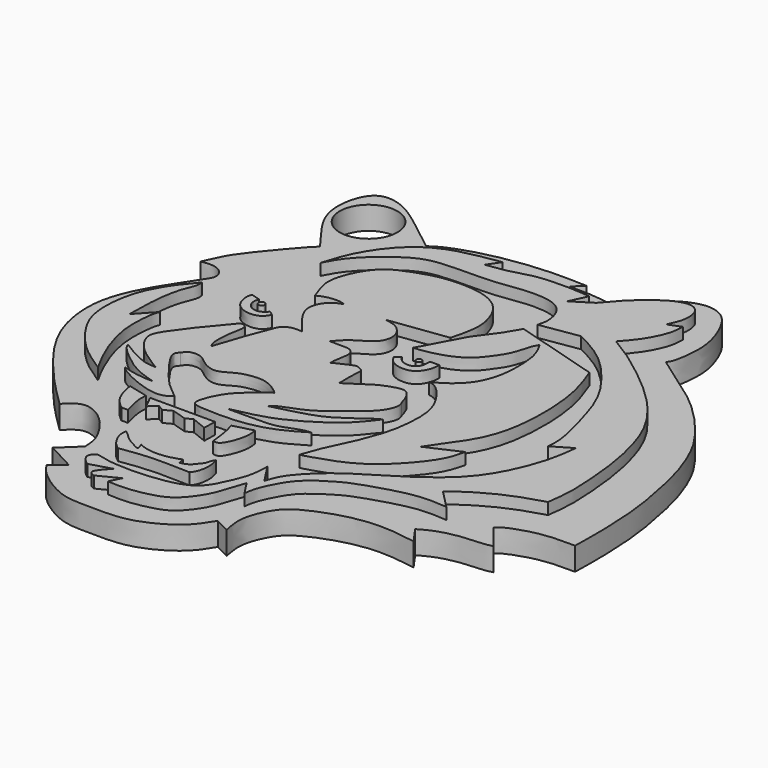
from build123d import *

# Parameters (mm, degrees)
F1_DEPTH  = 2
F3_DEPTH  = 1
F4_R      = 2.5
F5_DEPTH  = 9.3
F7_DEPTH  = 3
F9_DEPTH  = 3
F10_R     = 0.2742298285
F10_R_2   = 0.2370681614
F11_DEPTH = 3
F13_DEPTH = 3


with BuildPart() as f1:
    # F0 (on Top) → F1 (new body)
    with BuildSketch(Plane.XY):
        with BuildLine():
            add(Edge.make_bspline(
                [(7.8128222376, 40.7208278775), (7.4888809791, 41.1582398951), (6.7340914086, 42.1774185894), (4.8048164857, 44.76045053), (5.1272491722, 47.9099401738), (6.342461444, 49.3956865251), (8.5180403892, 48.9808106526), (10.6791015522, 47.3925119791), (12.4370783235, 46.0030828327), (13.3714471012, 45.2645979822)],
                knots=[0, 0, 0, 0, 0.1212494713, 0.282513678, 0.4399678404, 0.5555005722, 0.6809237941, 0.8304102481, 1, 1, 1, 1], degree=3))
            add(Edge.make_bspline(
                [(2.8614688199, 33.9627116919), (3.1325613305, 34.581983074), (3.7017104634, 35.8821214265), (5.1084507277, 37.682438645), (7.2129568597, 40.1776768533), (7.665627715, 40.5875498811), (7.8128222376, 40.7208278775)],
                knots=[0, 0, 0, 0, 0.2519451782, 0.528949986, 0.8468291451, 1, 1, 1, 1], degree=3))
            add(Edge.make_bspline(
                [(4.7813877463, 32.2806574404), (4.8981817207, 32.4556159939), (5.1458855567, 32.8266788426), (4.8577699148, 33.6692000249), (3.9437972172, 34.1229488794), (3.2308045774, 34.0173913281), (2.8614688199, 33.9627116919)],
                knots=[0, 0, 0, 0, 0.2133392813, 0.452463054, 0.7163715844, 1, 1, 1, 1], degree=3))
            add(Edge.make_bspline(
                [(8.4513220936, 11.6882547736), (7.7359390909, 12.3887624226), (6.2209799468, 13.8722201849), (3.6732547473, 16.7994963364), (1.3966217276, 20.3191178632), (0.7104780829, 24.9961292179), (2.3860268783, 28.6311389199), (3.7246985443, 30.6190247851), (4.4420639138, 31.7470742831), (4.7813877463, 32.2806574404)],
                knots=[0, 0, 0, 0, 0.1372009115, 0.2905489432, 0.4504477231, 0.6173454128, 0.771379127, 0.8918591361, 1, 1, 1, 1], degree=3))
            add(Edge.make_bspline(
                [(13.7013653293, 7.8823976219), (13.6861949358, 8.3103999825), (13.6509369982, 9.3051322866), (12.3272663992, 11.3872165897), (10.9660220402, 12.450828794), (9.5808293972, 12.7961423306), (8.8403320719, 12.0698187646), (8.4513220936, 11.6882547736)],
                knots=[0, 0, 0, 0, 0.1838495081, 0.427289804, 0.6349773624, 0.8082404304, 1, 1, 1, 1], degree=3))
            Line((13.7013653293, 7.8823976219), (12.1042644605, 6.3702492043))
            Line((12.1042644605, 6.3702492043), (14.5678780973, 5.0619859248))
            Line((14.5678780973, 5.0619859248), (13.3785475045, 4.1105216369))
            add(Edge.make_bspline(
                [(27.5346711278, 4.9826903269), (27.1717765069, 4.3789677451), (26.3343505311, 2.9858002992), (22.8253917018, 1.0305624187), (19.4376442236, 1.2150873661), (16.9024818761, 1.1170558096), (14.1517826392, 2.9595352246), (13.5977513642, 3.7842293453), (13.3785475045, 4.1105216369)],
                knots=[0, 0, 0, 0, 0.1528175636, 0.3526461677, 0.5392707049, 0.7018636945, 0.882041625, 1, 1, 1, 1], degree=3))
            Line((27.5346711278, 4.9826903269), (28.8312267512, 4.3257684447))
            add(Edge.make_bspline(
                [(39.7741645575, 10.9122758731), (39.2261198973, 11.0088183738), (37.9338955137, 11.2364541534), (34.7123098553, 11.3338309332), (30.7239898157, 9.8418058379), (29.4368849975, 8.6229039504), (28.4225722572, 6.3074598149), (28.698641631, 4.9687144846), (28.8312267512, 4.3257684447)],
                knots=[0, 0, 0, 0, 0.141177074, 0.3328788158, 0.548586155, 0.6889492726, 0.8506147294, 1, 1, 1, 1], degree=3))
            Line((39.7741645575, 10.9122758731), (38.7369170785, 12.3817063868))
            add(Edge.make_bspline(
                [(44.4417670369, 13.7474127114), (44.2597196637, 13.6951105701), (43.7612618328, 13.5519038245), (41.7794703649, 13.5457722099), (39.8163687133, 13.0133921079), (39.0624713637, 12.5722179269), (38.7369170785, 12.3817063868)],
                knots=[0, 0, 0, 0, 0.1700117463, 0.4655034829, 0.769189225, 1, 1, 1, 1], degree=3))
            Line((44.4417670369, 13.7474127114), (42.7303127944, 15.9083399922))
            add(Edge.make_bspline(
                [(48.7117618322, 17.2567591071), (48.3009326046, 17.2626648785), (47.3854783703, 17.2758247588), (45.5452369903, 17.1558723469), (43.3154313834, 16.4184171776), (42.8845833582, 16.0428253708), (42.7303127944, 15.9083399922)],
                knots=[0, 0, 0, 0, 0.2313357209, 0.5154873387, 0.8265141371, 1, 1, 1, 1], degree=3))
            add(Edge.make_bspline(
                [(36.6815663874, 42.1349518001), (37.3935645406, 41.6221010319), (38.9201763798, 40.5224857436), (41.8248474297, 38.5821148022), (44.7495226743, 35.4196020514), (46.3449960446, 32.8575866483), (47.4914293428, 29.7019950112), (48.026085025, 27.0456673704), (48.5407918485, 24.3870960996), (48.780420889, 20.5668171042), (48.7341344313, 18.3353436968), (48.7117618322, 17.2567591071)],
                knots=[0, 0, 0, 0, 0.1013746029, 0.2173596495, 0.3447998103, 0.4527321308, 0.5644931591, 0.6655975591, 0.7669349915, 0.8873478278, 1, 1, 1, 1], degree=3))
            add(Edge.make_bspline(
                [(28.405720368, 46.4419536293), (28.6728324813, 46.7700813411), (29.2564027469, 47.4869547676), (30.6555749778, 48.774588091), (31.9074529305, 49.7919809135), (33.7891417331, 50.4906476868), (35.4285538706, 49.9246980746), (36.4335938138, 48.477117023), (37.2524899196, 46.2668994249), (37.2992944556, 44.4509684635), (37.0392352827, 42.5913425067), (36.7744999633, 42.2535363931), (36.6815663874, 42.1349518001)],
                knots=[0, 0, 0, 0, 0.09086977, 0.1985267352, 0.2998018734, 0.4081446984, 0.50670956, 0.6095130195, 0.729000673, 0.838069643, 0.9431554235, 1, 1, 1, 1], degree=3))
            add(Edge.make_bspline(
                [(24.6477685869, 46.7040278018), (25.0528610369, 46.7128800517), (25.9209373435, 46.7318496188), (27.6188210034, 46.5915904189), (28.1791664866, 46.4850351172), (28.405720368, 46.4419536293)],
                knots=[0, 0, 0, 0, 0.3426260197, 0.7342164232, 1, 1, 1, 1], degree=3))
            Line((24.6477685869, 46.7040278018), (25.5264267325, 47.501578927))
            add(Edge.make_bspline(
                [(13.3714471012, 45.2645979822), (13.6936354174, 45.4761476983), (14.5234304422, 46.0209933463), (17.6033422051, 47.0424721001), (21.9053852163, 47.6307667527), (24.3622664919, 47.5431126486), (25.5264267325, 47.501578927)],
                knots=[0, 0, 0, 0, 0.1635277446, 0.421165207, 0.7257268967, 1, 1, 1, 1], degree=3))
        make_face()
    extrude(amount=F1_DEPTH)

    # F2 (on face) → F3 (join)
    with BuildSketch(Plane.XY.offset(2)):
        with BuildLine():
            add(Edge.make_bspline(
                [(10.5259735137, 37.3726449907), (10.7742450047, 38.1801044054), (11.3003551347, 39.8911851896), (13.1890375297, 42.6806923104), (15.8936998608, 44.5129926589), (18.6287658756, 44.9385069254), (20.0959779322, 45.1667718589)],
                knots=[0, 0, 0, 0, 0.2224377502, 0.4713660564, 0.7164170476, 1, 1, 1, 1], degree=3))
            add(Edge.make_bspline(
                [(10.5259735137, 37.3726449907), (10.8069662168, 37.9261281423), (11.4842378711, 39.2601786203), (14.7933385672, 42.0898774072), (17.2018525033, 42.5260570458), (20.5495048102, 42.4917337348), (22.0102293366, 42.6010787397), (24.6533234082, 43.048299483), (27.2972191471, 42.64016064), (27.9686814612, 40.5721368987), (27.7651148137, 39.8078027505), (27.6764910668, 39.4750460982)],
                knots=[0, 0, 0, 0, 0.1052885018, 0.2537749807, 0.3709459538, 0.5008517224, 0.5908969276, 0.7094106252, 0.8243931316, 0.9235486812, 1, 1, 1, 1], degree=3))
            Line((27.6764910668, 39.4750460982), (31.0472212732, 40.0035753846))
            add(Edge.make_bspline(
                [(39.3675379455, 25.9938798845), (39.4070098943, 26.4053570157), (39.5126631175, 27.506743861), (38.361607339, 31.573909438), (37.4044115882, 34.2957923982), (34.2722390555, 38.3418080308), (32.0677786764, 39.4777088345), (31.0472212732, 40.0035753846)],
                knots=[0, 0, 0, 0, 0.1321773097, 0.3537945103, 0.5482889682, 0.7908798715, 1, 1, 1, 1], degree=3))
            Line((39.3675379455, 25.9938798845), (41.0118699074, 26.9640348852))
            add(Edge.make_bspline(
                [(27.5448001921, 10.0109847263), (27.6580692353, 10.4172181167), (27.950642758, 11.4665174737), (30.5190401615, 14.11707607), (34.0540786946, 16.0169456447), (37.6620336233, 18.5956382242), (39.4984178504, 21.3055993954), (40.7329113167, 24.499765218), (40.9238423408, 26.1864153048), (41.0118699074, 26.9640348852)],
                knots=[0, 0, 0, 0, 0.0954647296, 0.2465850462, 0.4123078114, 0.5803205615, 0.7262798695, 0.8738030285, 1, 1, 1, 1], degree=3))
            Line((27.5448001921, 10.0109847263), (26.3937674463, 11.7868622765))
            add(Edge.make_bspline(
                [(16.3140203804, 5.9988182038), (16.8093610667, 5.8695334985), (18.0319551408, 5.5504345045), (21.6727917182, 5.6118208627), (24.5688731254, 6.3500861049), (25.5413949696, 8.2147594242), (26.3591984277, 10.1229584407), (26.3826924481, 11.2537915454), (26.3937674463, 11.7868622765)],
                knots=[0, 0, 0, 0, 0.1447965893, 0.357385244, 0.5450302963, 0.6996090096, 0.8583967482, 1, 1, 1, 1], degree=3))
            add(Edge.make_bspline(
                [(16.6100002825, 4.4860341586), (16.4837194848, 4.577000132), (16.2070725325, 4.7762818893), (15.6666595059, 5.4936809753), (16.0996085289, 5.8315121266), (16.3140203804, 5.9988182038)],
                knots=[0, 0, 0, 0, 0.2977094411, 0.6522005801, 1, 1, 1, 1], degree=3))
            Line((16.6100002825, 4.4860341586), (18.4516515583, 5.0286632031))
            add(Edge.make_bspline(
                [(18.0241260678, 3.4336624667), (17.8868171777, 3.4851007888), (17.6361544515, 3.579003449), (17.4663248295, 3.9502208397), (18.0473229662, 4.5861246322), (18.4516515583, 5.0286632031)],
                knots=[0, 0, 0, 0, 0.2691877095, 0.491412647, 1, 1, 1, 1], degree=3))
            Line((18.0241260678, 3.4336624667), (19.8000017554, 4.3380442075))
            Line((19.8000017554, 4.3380442075), (19.3067025393, 3.3514462411))
            add(Edge.make_bspline(
                [(26.8048513681, 9.0243872255), (26.7070001818, 8.7757033657), (26.4657286562, 8.1625239392), (26.0315741409, 6.3380004238), (24.48721129, 4.1941246532), (22.807295548, 3.6114005425), (20.985447932, 3.2641458253), (19.8586521505, 3.3227430019), (19.3067025393, 3.3514462411)],
                knots=[0, 0, 0, 0, 0.1187743815, 0.2928618172, 0.4966246567, 0.6640590684, 0.8354427044, 1, 1, 1, 1], degree=3))
            Line((26.8048513681, 9.0243872255), (27.6270154864, 7.7582527883))
            add(Edge.make_bspline(
                [(39.5484119654, 14.7466575727), (38.7330622205, 14.8101308139), (36.9828474581, 14.9463813058), (33.6320155517, 13.9006002001), (31.8391237734, 13.3081063929), (29.3474398701, 11.7214404788), (28.440044821, 10.2126133487), (27.7487197094, 8.7655871448), (27.6644441201, 8.0680460537), (27.6270154864, 7.7582527883)],
                knots=[0, 0, 0, 0, 0.1587579482, 0.340786891, 0.480847172, 0.6463279492, 0.7789863069, 0.9018429817, 1, 1, 1, 1], degree=3))
            Line((39.5484119654, 14.7466575727), (37.9369668663, 16.3909886032))
            add(Edge.make_bspline(
                [(44.4814041257, 19.6138769388), (43.8447728602, 19.425546894), (42.4760415371, 19.0206449587), (39.9627456937, 17.8745597646), (38.6026801379, 16.8785211009), (37.9369668663, 16.3909886032)],
                knots=[0, 0, 0, 0, 0.3074569546, 0.6610199453, 1, 1, 1, 1], degree=3))
            add(Edge.make_bspline(
                [(33.3492867649, 40.8915132284), (33.921877715, 40.5524737908), (35.2074634837, 39.791259741), (37.8375153163, 37.7799959431), (40.5450496108, 35.4348904009), (43.1146974944, 32.1358695366), (44.2516899107, 27.7103187847), (44.5543694812, 24.9067123106), (44.7877067998, 21.8890145297), (44.579042667, 20.3391109454), (44.4814041257, 19.6138769388)],
                knots=[0, 0, 0, 0, 0.1020004032, 0.2290121188, 0.3625403027, 0.5059297698, 0.654354383, 0.773575506, 0.8940509948, 1, 1, 1, 1], degree=3))
            add(Edge.make_bspline(
                [(35.552687943, 45.3805364668), (35.5404935168, 45.0037694364), (35.5123022564, 44.1327536662), (34.5574870476, 42.2258103324), (33.7430432875, 41.3263651278), (33.3492867649, 40.8915132284)],
                knots=[0, 0, 0, 0, 0.2825135404, 0.6531191137, 1, 1, 1, 1], degree=3))
            Line((35.552687943, 45.3805364668), (34.4509854913, 44.9530109763))
            add(Edge.make_bspline(
                [(28.7944879383, 44.4761551917), (29.2117750152, 44.9812653674), (30.1194162744, 46.0799306779), (32.3414923162, 47.9159698805), (33.9083763234, 48.3674801935), (34.8675544594, 47.8353481604), (35.1078985708, 46.3451671438), (34.6748118635, 45.4273526728), (34.4509854913, 44.9530109763)],
                knots=[0, 0, 0, 0, 0.1871158719, 0.406995795, 0.5661118229, 0.6886930268, 0.8391114082, 1, 1, 1, 1], degree=3))
            Line((28.7944879383, 44.4761551917), (27.1008275449, 43.4073396027))
            Line((27.1008275449, 43.4073396027), (27.8078876436, 44.9201241136))
            add(Edge.make_bspline(
                [(19.3889159709, 44.1143997014), (19.9876590207, 44.1826123284), (21.2560753709, 44.3271184092), (23.300120756, 45.1125461156), (26.6187120022, 45.0504954006), (27.4850281466, 44.9555197328), (27.8078876436, 44.9201241136)],
                knots=[0, 0, 0, 0, 0.2347530334, 0.4973161458, 0.8126593192, 1, 1, 1, 1], degree=3))
            Line((19.3889159709, 44.1143997014), (20.0959779322, 45.1667718589))
        make_face()
    extrude(amount=F3_DEPTH)

    # F4 (on face) → F5 (cut)
    with BuildSketch(Plane.XY.offset(2)):
        with Locations((8.1043283156, 45.6219207526)):
            Circle(F4_R)
    extrude(amount=-F5_DEPTH, mode=Mode.SUBTRACT)

    # F6 (on Top) → F7 (join)
    with BuildSketch(Plane.XY):
        with BuildLine():
            add(Edge.make_bspline(
                [(13.237698935, 33.3958156407), (12.9929514646, 34.0189161403), (12.5209178856, 35.2206624073), (12.8001989017, 36.8884053121), (14.02568266, 39.3267317297), (16.2812394003, 40.2528535419), (18.5273890476, 40.9691877963), (21.7669124445, 40.9290522929), (23.7104123114, 39.8957597481), (24.5590635143, 38.2374717236), (24.8515264358, 36.5446800604), (24.4732491762, 35.0847410533), (24.268463254, 34.2943817377)],
                knots=[0, 0, 0, 0, 0.0939289542, 0.1811566034, 0.2904494275, 0.3942550402, 0.4994954122, 0.6205674535, 0.7190345235, 0.8086044587, 0.8963852269, 1, 1, 1, 1], degree=3))
            add(Edge.make_bspline(
                [(13.237698935, 33.3958156407), (13.3871835434, 33.4760994504), (13.7442414841, 33.6678648238), (14.843636639, 33.8691285376), (15.3549447301, 33.7155489648), (15.5889149755, 33.6452722549)],
                knots=[0, 0, 0, 0, 0.280894857, 0.6709435862, 1, 1, 1, 1], degree=3))
            add(Edge.make_bspline(
                [(15.5889149755, 33.6452722549), (15.392777669, 33.5791296914), (14.9631092776, 33.4342344169), (14.2467467647, 32.8191451573), (13.8976017105, 31.7778395697), (14.2441639815, 30.7659163276), (15.0140673388, 29.7377993984), (15.545690673, 29.0786482134), (15.8114675432, 28.7491157651)],
                knots=[0, 0, 0, 0, 0.1326723372, 0.2906387913, 0.4586395204, 0.6257657718, 0.812907381, 1, 1, 1, 1], degree=3))
            add(Edge.make_bspline(
                [(15.8114675432, 28.7491157651), (15.5950192032, 28.7626689227), (15.1417893597, 28.7910484219), (14.2592908358, 28.543105219), (13.8091027226, 27.2695377992), (13.0545205291, 25.2973606429), (12.6183691759, 23.9167869459), (12.3989963904, 23.2223942876)],
                knots=[0, 0, 0, 0, 0.1413053321, 0.2958848912, 0.489425581, 0.7431943482, 1, 1, 1, 1], degree=3))
            add(Edge.make_bspline(
                [(12.3989963904, 23.2223942876), (12.3286582792, 23.3271152967), (12.1702949697, 23.5628902596), (12.117325188, 24.1792241881), (12.1884384319, 25.4964495071), (12.4284791496, 26.4170111205), (12.4073383386, 26.732808512), (12.3989963904, 26.8574189395)],
                knots=[0, 0, 0, 0, 0.1480152164, 0.3332500562, 0.6122694895, 0.8470054979, 1, 1, 1, 1], degree=3))
            add(Edge.make_bspline(
                [(12.3989963904, 26.8574189395), (12.2572026364, 26.9681067332), (11.9384721002, 27.2169158582), (11.3552437043, 26.501551552), (10.4387728843, 25.4083403526), (9.1673030851, 23.8048530747), (8.4258571752, 22.7262446873), (7.8855540083, 21.6598162566), (9.0406823382, 19.8330381245), (11.0352803036, 18.6523555695), (11.2906876389, 18.4981568159), (11.3604171202, 18.4560585767)],
                knots=[0, 0, 0, 0, 0.0694997827, 0.1562248152, 0.2806291231, 0.4261838222, 0.5423935306, 0.6439198307, 0.7891357736, 0.9424313593, 1, 1, 1, 1], degree=3))
            add(Edge.make_bspline(
                [(11.3604171202, 18.4560585767), (11.0361809626, 18.4648247701), (10.2980011613, 18.4847825287), (8.7610279873, 19.2665417798), (8.1207243503, 19.6886362351), (7.8339939937, 19.8776517063)],
                knots=[0, 0, 0, 0, 0.3019331072, 0.687403042, 1, 1, 1, 1], degree=3))
            add(Edge.make_bspline(
                [(7.8339939937, 19.8776517063), (7.8686483396, 19.7651058945), (7.976229307, 19.415718624), (9.441634338, 18.1317145774), (10.8722721831, 17.2142304685), (11.9627286087, 16.8875998997), (12.4963652343, 16.7277567089)],
                knots=[0, 0, 0, 0, 0.1399202506, 0.4343684909, 0.7231969267, 1, 1, 1, 1], degree=3))
            add(Edge.make_bspline(
                [(12.4963652343, 16.7277567089), (12.3521494862, 16.7219896643), (11.972817903, 16.7068205708), (10.6241792181, 16.8653494461), (10.0260722164, 17.06009193), (9.7541799769, 17.1486195177)],
                knots=[0, 0, 0, 0, 0.2506813707, 0.6593687758, 1, 1, 1, 1], degree=3))
            add(Edge.make_bspline(
                [(9.7541799769, 17.1486195177), (9.8332012786, 17.0598379647), (10.0718108805, 16.7917566938), (11.6115775247, 15.9699282826), (13.4368011039, 15.3964530169), (14.4691757882, 15.498201909), (14.8446473945, 15.8011971871), (15.0149660185, 15.9386396408)],
                knots=[0, 0, 0, 0, 0.1258337499, 0.3799626213, 0.6535770296, 0.8428582011, 1, 1, 1, 1], degree=3))
            add(Edge.make_bspline(
                [(15.0149660185, 15.9386396408), (14.8577394091, 16.0775167731), (14.4898324653, 16.4024863281), (13.4886366857, 17.149799212), (12.1604740579, 18.8813319667), (10.8453763741, 20.6805750278), (11.2299852197, 21.0571476299), (11.3604171202, 21.1848542094)],
                knots=[0, 0, 0, 0, 0.1458855635, 0.341369136, 0.6168248209, 0.870054297, 1, 1, 1, 1], degree=3))
            add(Edge.make_bspline(
                [(11.3604171202, 21.1848542094), (11.4439447184, 21.3305481979), (11.639569256, 21.6717685819), (12.6911290893, 21.7631933524), (13.3523113541, 21.1694703343), (14.088427493, 20.6701751828), (15.0513029355, 20.4718999575), (16.1489562299, 21.2572458329), (17.0144810102, 21.4786922166), (18.4611960578, 21.6743337499), (19.7286902185, 20.8270407281), (19.9280218647, 20.6102103045), (19.9943203479, 20.5380916595)],
                knots=[0, 0, 0, 0, 0.0746994198, 0.174948637, 0.2726321164, 0.3703155516, 0.4697876727, 0.5871916751, 0.686853688, 0.8116239457, 0.9373453893, 1, 1, 1, 1], degree=3))
            add(Edge.make_bspline(
                [(19.9943203479, 20.5380916595), (19.8635012388, 20.4651997398), (19.5270170184, 20.2777119869), (18.5615567534, 19.4196941739), (17.7957592619, 18.7369714596), (17.0849519367, 17.7075470609), (16.5964575738, 16.3622319962), (16.7507238866, 15.8116480277), (18.2467228218, 15.6714355671), (21.102011263, 15.6642150616), (23.6667197536, 16.397854725), (24.97082639, 17.1890421665), (25.5912952125, 17.5654739141)],
                knots=[0, 0, 0, 0, 0.0607076616, 0.1561482136, 0.2431285463, 0.339034228, 0.438933642, 0.492929239, 0.5894931606, 0.7354922089, 0.874152287, 1, 1, 1, 1], degree=3))
            add(Edge.make_bspline(
                [(25.5912952125, 17.5654739141), (25.3627661235, 17.5468848305), (24.7929272009, 17.5005328171), (23.2212779756, 16.7157274028), (21.1974516454, 16.7310730957), (19.7113950805, 16.7288806769), (18.9495515078, 16.7277567089)],
                knots=[0, 0, 0, 0, 0.1704279215, 0.4249632446, 0.705200955, 1, 1, 1, 1], degree=3))
            add(Edge.make_bspline(
                [(18.9495515078, 16.7277567089), (19.1250237765, 16.7625270283), (19.6016236761, 16.8569666277), (21.4880969893, 17.2960674837), (22.9576887988, 17.8302838852), (25.2544433823, 19.1182145023), (26.9390008416, 20.460451008), (27.7791900937, 21.5560810045), (28.190780431, 22.0928061754)],
                knots=[0, 0, 0, 0, 0.1000526447, 0.2717528005, 0.4341264589, 0.6355253735, 0.8214518525, 1, 1, 1, 1], degree=3))
            add(Edge.make_bspline(
                [(28.190780431, 22.0928061754), (28.0062365914, 21.9987662197), (27.4918930408, 21.7366667382), (25.5702564019, 20.2083291665), (23.8009755347, 19.4648632758), (21.9349051939, 19.0015399128), (20.9114067256, 18.7474172562)],
                knots=[0, 0, 0, 0, 0.1554756869, 0.4333274794, 0.6891926075, 1, 1, 1, 1], degree=3))
            add(Edge.make_bspline(
                [(20.9114067256, 18.7474172562), (20.998119764, 18.8570037437), (21.2699568385, 19.2005468916), (23.5774662016, 19.8647334296), (25.3761542801, 21.4616562114), (27.2630307907, 22.8108266098), (27.881078436, 24.2776177533), (27.6987469454, 24.6507048331), (27.6310760528, 24.789173156)],
                knots=[0, 0, 0, 0, 0.0974656312, 0.3055454238, 0.5266921953, 0.7382975717, 0.9028712107, 1, 1, 1, 1], degree=3))
            add(Edge.make_bspline(
                [(27.6310760528, 24.789173156), (27.546600294, 25.0894473141), (27.3810486358, 25.6779106256), (26.774806484, 26.4819279295), (25.7624477499, 26.2455080306), (24.6734381551, 25.8275998061), (23.8354345276, 25.2252916672), (22.9973283346, 24.6878345002), (22.5352272391, 24.3915002793)],
                knots=[0, 0, 0, 0, 0.1561758145, 0.3060660882, 0.4615031388, 0.6356910901, 0.7991333941, 1, 1, 1, 1], degree=3))
            add(Edge.make_bspline(
                [(22.5352272391, 24.3915002793), (22.5377960293, 24.6013030078), (22.5434304568, 25.0614878429), (22.4960111374, 25.9189679684), (22.6459175124, 26.8351112581), (22.2985458747, 26.8965103504), (21.9735334279, 27.1866989121), (21.2215748139, 26.8397810247), (20.5799780978, 26.5357967785), (20.2238280326, 26.3670552522)],
                knots=[0, 0, 0, 0, 0.1410080956, 0.3092895297, 0.4664628322, 0.5550965727, 0.6614939486, 0.8120954343, 1, 1, 1, 1], degree=3))
            add(Edge.make_bspline(
                [(20.2238280326, 26.3670552522), (20.2170038401, 26.4775053534), (20.1997296751, 26.7570890916), (20.373829273, 27.6153895141), (20.4556721461, 28.2890831452), (20.0011942015, 28.7897456109), (19.3057632211, 28.7691743742), (18.5940709056, 28.7868993753), (18.189009279, 28.7969876081)],
                knots=[0, 0, 0, 0, 0.1225504062, 0.3102133933, 0.4741506992, 0.6237680338, 0.7858665481, 1, 1, 1, 1], degree=3))
            add(Edge.make_bspline(
                [(18.189009279, 28.7969876081), (18.5192640129, 29.1764343016), (19.2017280574, 29.9605524339), (20.9112199896, 30.6563648955), (21.302851704, 32.1874810549), (20.4396861738, 33.3932068893), (19.6184433249, 33.5436643652), (19.216299057, 33.6173400283)],
                knots=[0, 0, 0, 0, 0.2077684869, 0.4293489458, 0.6241837184, 0.8159711666, 1, 1, 1, 1], degree=3))
            Line((19.216299057, 33.6173400283), (24.268463254, 34.2943817377))
        make_face()
    extrude(amount=F7_DEPTH)

    # F8 (on Top) → F9 (join)
    with BuildSketch(Plane.XY):
        with BuildLine():
            Line((13.4613150731, 14.77857586), (11.7462947965, 15.2014577761))
            add(Edge.make_bspline(
                [(11.7462947965, 15.2014577761), (11.7787945087, 15.002100313), (11.8567800896, 14.5237266144), (12.2674157563, 13.2278611031), (12.9159568795, 12.6707453127), (13.2381273434, 12.3939914629)],
                knots=[0, 0, 0, 0, 0.2644702637, 0.634616915, 1, 1, 1, 1], degree=3))
            Line((13.2381273434, 12.3939914629), (13.8137172908, 12.3939914629))
            add(Edge.make_bspline(
                [(13.4613150731, 14.77857586), (13.4431467934, 14.5164170914), (13.4001567257, 13.8960929121), (13.6623379699, 12.9438192668), (13.8137172908, 12.3939914629)],
                knots=[0, 0, 0, 0, 0.4226157506, 1, 1, 1, 1], degree=3))
        make_face()
        Polygon((19.5226240903, 14.7080952302), (13.8841988519, 14.7080952302), (14.4597869366, 13.5686639696), (15.0823639706, 14.167746529), (15.6227126718, 13.8505846262), (16.3259579992, 14.2058317088), (17.5844151527, 13.8153452426), (18.1565420484, 14.104357345), (19.4873828441, 13.5686639696), align=None)
        with BuildLine():
            Line((22.4358104169, 15.4128987342), (20.7090415061, 14.9547765031))
            add(Edge.make_bspline(
                [(20.7090415061, 14.9547765031), (20.7872362526, 14.7237116567), (20.9811727143, 14.1506309736), (21.1050063295, 13.0726019289), (21.1789105088, 12.4292317778)],
                knots=[0, 0, 0, 0, 0.4031977577, 1, 1, 1, 1], degree=3))
            add(Edge.make_bspline(
                [(21.1789105088, 12.4292317778), (21.3191717849, 12.4012265113), (21.6555271513, 12.3340681201), (22.1594415616, 13.0803965623), (22.5855735084, 14.4876675846), (22.4815492636, 15.1303257365), (22.4358104169, 15.4128987342)],
                knots=[0, 0, 0, 0, 0.1725113226, 0.4136930069, 0.7422042743, 1, 1, 1, 1], degree=3))
        make_face()
        with BuildLine():
            add(Edge.make_bspline(
                [(17.876425758, 8.4475539625), (17.8235738106, 8.4390578698), (17.6811077045, 8.4161560601), (17.2286894165, 8.7009724709), (16.6086560148, 8.98803391), (16.0611586773, 9.5870422161), (15.802374658, 9.7722383032), (15.6918987632, 9.8512992263)],
                knots=[0, 0, 0, 0, 0.1181158724, 0.3183895625, 0.5587395719, 0.8116242232, 1, 1, 1, 1], degree=3))
            add(Edge.make_bspline(
                [(15.6918987632, 9.8512992263), (15.659069372, 9.6767818587), (15.5787973217, 9.2500646276), (16.1163218953, 8.0948733667), (16.5836451637, 7.7437365192), (16.7966205627, 7.5837112963)],
                knots=[0, 0, 0, 0, 0.2735836391, 0.6689469053, 1, 1, 1, 1], degree=3))
            add(Edge.make_bspline(
                [(16.7966205627, 7.5837112963), (17.0223882923, 7.6221139098), (17.5449019176, 7.7109923728), (18.8296675024, 7.8611579227), (20.1487454599, 7.9129489402), (21.585004816, 7.885225111), (22.3870365916, 7.8610263944), (22.7687675506, 7.8495088965)],
                knots=[0, 0, 0, 0, 0.1581370931, 0.365990241, 0.5806239612, 0.8003959166, 1, 1, 1, 1], degree=3))
            add(Edge.make_bspline(
                [(22.7687675506, 7.8495088965), (22.8753341283, 7.9647177809), (23.1409677264, 8.2518936589), (23.3525408234, 9.4422902467), (23.1707915448, 10.0517035062), (23.084403947, 10.3413648903)],
                knots=[0, 0, 0, 0, 0.2600888107, 0.6483113948, 1, 1, 1, 1], degree=3))
            add(Edge.make_bspline(
                [(23.084403947, 10.3413648903), (23.0140572274, 10.250225353), (22.8633316062, 10.0549488218), (22.8309113145, 9.5671395235), (22.4458569514, 9.2154519817), (22.1663739293, 8.7478027321), (21.6409766421, 8.5520019406), (21.4676038299, 8.5307941944), (21.3982481509, 8.5223102942)],
                knots=[0, 0, 0, 0, 0.1505147722, 0.3224945336, 0.5028912451, 0.6910701247, 0.8764163713, 1, 1, 1, 1], degree=3))
            add(Edge.make_bspline(
                [(21.3982481509, 8.5223102942), (21.3539482405, 8.6939713607), (21.30964833, 8.8656324272), (21.2653484195, 9.0372934937)],
                knots=[0, 0, 0, 0, 0.5318552758, 0.5318552758, 0.5318552758, 0.5318552758], degree=3))
            add(Edge.make_bspline(
                [(21.2653484195, 9.0372934937), (21.1913602451, 9.0028697007), (21.007565892, 8.9173574034), (20.3949664407, 8.743211082), (19.962860231, 8.6499493275), (19.0156898766, 8.5740767565), (18.1343874418, 8.7559931725), (17.8289372735, 8.9077681058), (17.7019964904, 8.970843628)],
                knots=[0, 0, 0, 0, 0.1149003191, 0.2854243937, 0.4338441486, 0.6446112421, 0.8523054432, 1, 1, 1, 1], degree=3))
            add(Edge.make_bspline(
                [(17.7019964904, 8.970843628), (17.7601395796, 8.7964137395), (17.8182826688, 8.621983851), (17.876425758, 8.4475539625)],
                knots=[0, 0, 0, 0, 0.5515955434, 0.5515955434, 0.5515955434, 0.5515955434], degree=3))
        make_face()
    extrude(amount=F9_DEPTH)

    # F10 (on Top) → F11 (join)
    with BuildSketch(Plane.XY):
        with Locations((11.1673707142, 30.2044469863)):
            Circle(F10_R)
        with Locations((24.6956888586, 30.3480643779)):
            Circle(F10_R_2)
        with BuildLine():
            Line((10.6252441183, 30.6028574705), (9.8646553233, 30.8201685548))
            add(Edge.make_bspline(
                [(9.8646553233, 30.8201685548), (9.8150511294, 30.7390116861), (9.6827491194, 30.5225538426), (9.8124837777, 29.5975001087), (10.2096245748, 29.008426921), (10.8839343287, 28.6030491416), (11.792577985, 28.5311930561), (12.4575759768, 28.8614277388), (12.6287802634, 29.2125560546), (12.7094546333, 29.3780136853)],
                knots=[0, 0, 0, 0, 0.0984453071, 0.2625687662, 0.4099335107, 0.5610724924, 0.7255559708, 0.8706773085, 1, 1, 1, 1], degree=3))
            Line((12.7094546333, 29.3780136853), (12.3439766467, 29.654590413))
            add(Edge.make_bspline(
                [(10.6252441183, 30.6028574705), (10.5733469539, 30.433629652), (10.4646150546, 30.079073438), (10.7410431339, 29.4435357414), (11.2835863041, 29.1627031191), (11.8571266615, 29.1859265045), (12.1755527184, 29.4924578898), (12.3439766467, 29.654590413)],
                knots=[0, 0, 0, 0, 0.1904551074, 0.3990303862, 0.5979926723, 0.7873677363, 1, 1, 1, 1], degree=3))
        make_face()
        with BuildLine():
            Line((26.1827372015, 30.6917577982), (25.3727603704, 30.6917577982))
            add(Edge.make_bspline(
                [(23.4564710408, 30.0398245454), (23.545464121, 29.9088054336), (23.7217937894, 29.6492059625), (24.1164705717, 29.4129528492), (24.7125556399, 29.3382505149), (25.180275241, 29.6495587645), (25.3589391618, 30.0401132167), (25.3678037661, 30.4580630148), (25.3727603704, 30.6917577982)],
                knots=[0, 0, 0, 0, 0.1594353702, 0.3159030558, 0.4932061556, 0.6616586323, 0.8108179188, 1, 1, 1, 1], degree=3))
            Line((23.4564710408, 30.0398245454), (23.0317264795, 29.6743474901))
            add(Edge.make_bspline(
                [(23.0317264795, 29.6743474901), (23.1231809559, 29.5137645627), (23.324160671, 29.1608686488), (24.0513622203, 28.7273012512), (25.1379648836, 28.7279234819), (25.7829336632, 29.2239009306), (26.1425431755, 29.9803998922), (26.1696294855, 30.4597761261), (26.1827372015, 30.6917577982)],
                knots=[0, 0, 0, 0, 0.1423721836, 0.3128761112, 0.5053921541, 0.6715682642, 0.8410639955, 1, 1, 1, 1], degree=3))
        make_face()
    extrude(amount=F11_DEPTH)

    # F12 (on Top) → F13 (join)
    with BuildSketch(Plane.XY):
        with BuildLine():
            add(Edge.make_bspline(
                [(6.0530565679, 30.134331435), (6.0737015756, 29.9699315007), (6.1272678433, 29.543373612), (5.467500946, 28.2626517292), (5.1447136289, 25.9202986503), (5.1264064846, 24.2585669449), (5.1171141677, 23.41510728)],
                knots=[0, 0, 0, 0, 0.1450931379, 0.3764637917, 0.6835062847, 1, 1, 1, 1], degree=3))
            add(Edge.make_bspline(
                [(6.0530565679, 30.134331435), (5.5989771603, 29.5997120348), (4.6159328475, 28.442305308), (3.2114324249, 25.8550905432), (2.9420623026, 22.2035545752), (3.9921637835, 19.9699852047), (5.8133929013, 17.6404891871), (7.4841387776, 16.5496955245), (8.3300489932, 15.9974191338)],
                knots=[0, 0, 0, 0, 0.146480727, 0.3171186431, 0.5039841421, 0.6587296674, 0.8272124655, 1, 1, 1, 1], degree=3))
            add(Edge.make_bspline(
                [(8.3300489932, 15.9974191338), (8.1740528437, 16.2651641901), (7.7804328252, 16.9407565966), (6.7503541466, 19.1864107751), (6.0521963207, 21.8503352416), (6.3169126943, 24.4859524492), (6.4900665261, 24.8550395184), (6.5419808961, 24.9656978995)],
                knots=[0, 0, 0, 0, 0.1552900683, 0.3918383867, 0.6553796219, 0.8966771358, 1, 1, 1, 1], degree=3))
            Line((6.5419808961, 24.9656978995), (5.1171141677, 23.41510728))
        make_face()
        with BuildLine():
            add(Edge.make_bspline(
                [(35.5264768004, 21.8415986747), (35.3968222971, 21.320579658), (35.1096012186, 20.1663764486), (33.5525017718, 18.1658680057), (31.9796863743, 16.6401485099), (30.0523628508, 15.3868582021), (27.2470491754, 14.5461228458), (27.0353821303, 14.5159685376), (26.9904471934, 14.5095670596)],
                knots=[0, 0, 0, 0, 0.1613979098, 0.3575416243, 0.5404371925, 0.7372263266, 0.9442156032, 1, 1, 1, 1], degree=3))
            Line((35.5264768004, 21.8415986747), (32.6936766505, 20.5635502934))
            add(Edge.make_bspline(
                [(32.6936766505, 20.5635502934), (32.8380490912, 20.8064117765), (33.2334324551, 21.4715206415), (35.1865238817, 23.9350245613), (36.1939043574, 27.5240624961), (36.0621870264, 32.8811884641), (35.1936435164, 35.1683021052), (34.8034501076, 36.1957885325)],
                knots=[0, 0, 0, 0, 0.1121907919, 0.3072495864, 0.5291734926, 0.7884810631, 1, 1, 1, 1], degree=3))
            Line((34.8034501076, 36.1957885325), (27.327882126, 38.4052321315))
            add(Edge.make_bspline(
                [(25.1421406865, 35.1681932807), (25.2339088488, 35.3046424798), (25.4778362447, 35.6673357822), (26.4728935314, 36.9027424367), (27.0362991577, 37.8928271616), (27.327882126, 38.4052321315)],
                knots=[0, 0, 0, 0, 0.2253926745, 0.5991124463, 1, 1, 1, 1], degree=3))
            Line((25.1421406865, 35.1681932807), (23.2044849545, 31.5627083182))
            add(Edge.make_bspline(
                [(29.6447947621, 37.2523069382), (29.5502593485, 37.0961555556), (29.3036993202, 36.6888934742), (28.9838261256, 35.1061696585), (28.0486134902, 33.8602557706), (27.4449981506, 33.0533526688), (26.1763638415, 32.1396077477), (24.1825884024, 31.6501433764), (23.4865939258, 31.5879267288), (23.2044849545, 31.5627083182)],
                knots=[0, 0, 0, 0, 0.0989919963, 0.2581833462, 0.4155146045, 0.5402181163, 0.6964111506, 0.8769456643, 1, 1, 1, 1], degree=3))
            add(Edge.make_bspline(
                [(27.1880030632, 28.3425543457), (27.442129433, 28.4625098376), (28.0579915166, 28.7532157536), (29.5892077892, 29.9455890512), (30.414504364, 32.0029141691), (30.5211626035, 34.0357149255), (30.3580907465, 36.0053673649), (29.8693895304, 36.8596843654), (29.6447947621, 37.2523069382)],
                knots=[0, 0, 0, 0, 0.1230727213, 0.29826036, 0.4873393763, 0.6710561716, 0.8488257027, 1, 1, 1, 1], degree=3))
            add(Edge.make_bspline(
                [(26.9904471934, 14.5095670596), (27.1507721434, 14.9951547938), (27.4994817762, 16.0513167977), (28.5033557541, 17.9519317431), (29.4707597181, 20.4351523223), (29.8830947347, 22.2866555499), (30.0171575534, 25.1615689355), (28.9724024128, 26.9859555373), (27.950782709, 28.1577594946), (27.4109127984, 28.288551107), (27.1880030632, 28.3425543457)],
                knots=[0, 0, 0, 0, 0.1149502534, 0.2500188564, 0.3981870411, 0.5261968931, 0.6782413412, 0.811377102, 0.9221184967, 1, 1, 1, 1], degree=3))
        make_face()
    extrude(amount=F13_DEPTH)


solid = f1.part
